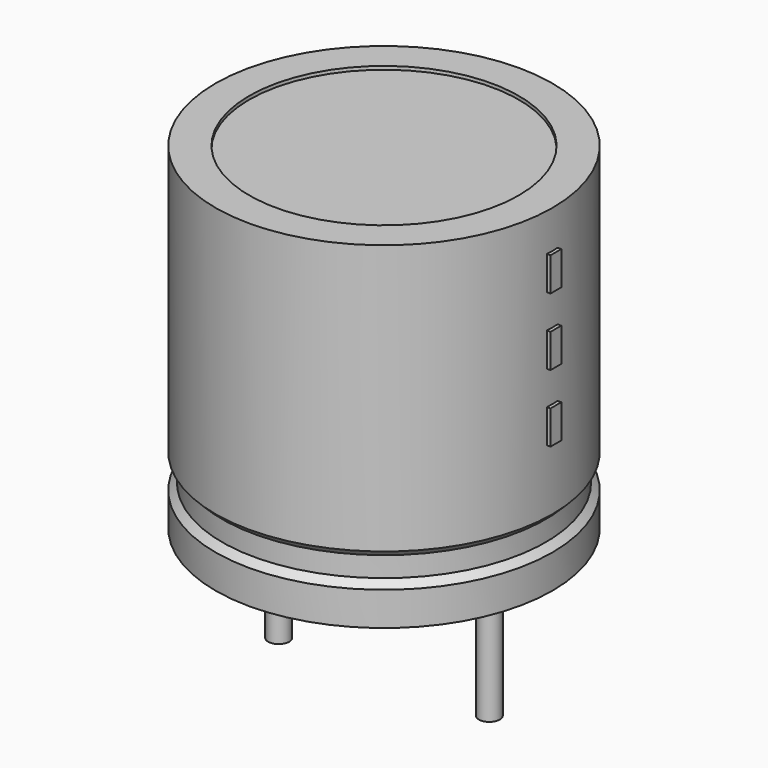
from build123d import *

# Parameters (mm, degrees)
SKETCH002_W  = 3.68
SKETCH002_H  = 7.84
SKETCH003_R  = 0.25
PAD_DEPTH    = 3.8
SKETCH004_W  = 0.32
SKETCH004_H  = 0.8
PAD001_DEPTH = 4.08


with BuildPart() as revolution:
    # Sketch → Revolution (revolve)
    with BuildSketch(Plane.XZ):
        Polygon((-1.5, 0.1), (-1.5, 0.9), (-1.34, 1.06), (-1.34, 1.54), (-1.5, 1.7), (-1.5, 8.1), (-0.7, 8.1), (-0.7, 0.1), align=None)
    revolve(axis=Axis((2.5, 0, 7.548619), (0, 0, -1)))


with BuildPart() as revolution001:
    # Sketch002 → Revolution001 (revolve)
    with BuildSketch(Plane.XZ):
        with Locations((0.66, 4.1)):
            Rectangle(SKETCH002_W, SKETCH002_H)
    revolve(axis=Axis((2.5, 0, 4.680116), (0, 0, -1)))


with BuildPart() as pad:
    # Sketch003 → Pad (new body)
    with BuildSketch(Plane.XY.offset(0.8)):
        Circle(SKETCH003_R)
        with Locations((5, 0)):
            Circle(SKETCH003_R)
    extrude(amount=-PAD_DEPTH)


with BuildPart() as pad001:
    # Sketch004 → Pad001 (new body)
    with BuildSketch(Plane.YZ.offset(2.5)):
        with Locations((0, 3.6)):
            Rectangle(SKETCH004_W, SKETCH004_H)
        with Locations((0, 5.2)):
            Rectangle(SKETCH004_W, SKETCH004_H)
        with Locations((0, 6.8)):
            Rectangle(SKETCH004_W, SKETCH004_H)
    extrude(amount=PAD001_DEPTH)


solid = Compound([revolution.part, revolution001.part, pad.part, pad001.part])
